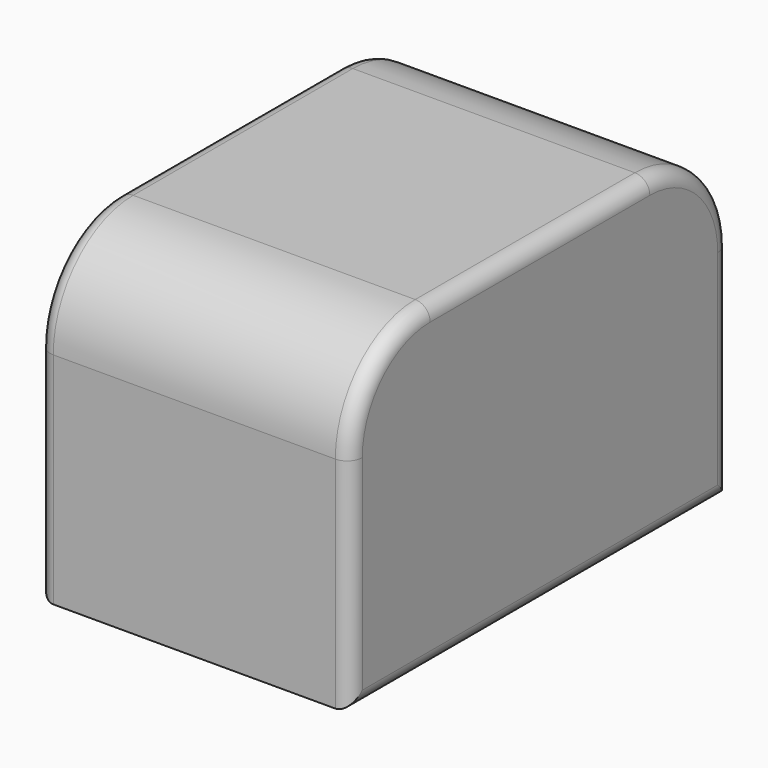
from build123d import *

# Parameters (mm, degrees)
F0_W     = 15.875
F0_H     = 24.13
F1_DEPTH = 16.256
F2_D     = 3.175
F2_DEPTH = 11.684
F2_TIP   = 0.9538662327
F3_R     = 5.08
F4_R     = 0.762


with BuildPart() as f1:
    # F0 (on Top) → F1 (new body)
    with BuildSketch(Plane.XY):
        with Locations((0.1865295499, -0.323939874)):
            Rectangle(F0_W, F0_H)
    extrude(amount=F1_DEPTH)

    # F2
    with Locations(Plane(origin=(0, 0, 0), x_dir=(1, 0, 0), z_dir=(0, 0, -1))):
        with Locations((0, 0)):
            Hole(F2_D / 2, depth=F2_DEPTH)
            with Locations((0, 0, -(F2_DEPTH + F2_TIP / 2))):  # 118° drill point
                Cone(0, F2_D / 2, F2_TIP, mode=Mode.SUBTRACT)

    # F3
    f3_edges = [f1.edges().sort_by_distance(p)[0] for p in [
        (0.18653, -12.38894, 16.256),
        (0.18653, 11.74106, 16.256),
    ]]
    fillet(f3_edges, radius=F3_R)

    # F4
    f4_edges = [f1.edges().sort_by_distance(p)[0] for p in [
        (8.12403, -12.38894, 5.588),
        (8.12403, -10.901042, 14.768102),
        (8.12403, -0.32394, 0),
        (8.12403, -0.32394, 16.256),
        (8.12403, 11.74106, 5.588),
        (8.12403, 10.253163, 14.768102),
        (-7.75097, 11.74106, 5.588),
        (-7.75097, 10.253163, 14.768102),
        (-7.75097, -0.32394, 0),
        (-7.75097, -0.32394, 16.256),
        (-7.75097, -12.38894, 5.588),
        (-7.75097, -10.901042, 14.768102),
    ]]
    fillet(f4_edges, radius=F4_R)


solid = f1.part
